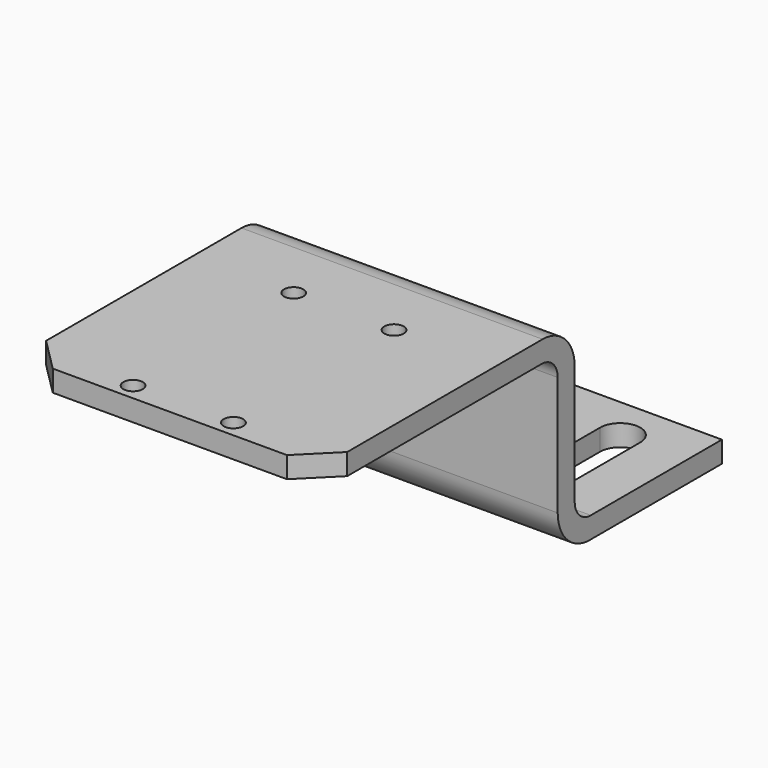
from build123d import *

# Parameters (mm, degrees)
F1_DEPTH = 45
F2_SIZE  = 10
F4_D     = 5.8
F6_DEPTH = 60.001


with BuildPart() as f1:
    # F0 (on Right) → F1 (new body, symmetric)
    with BuildSketch(Plane.YZ):
        with BuildLine():
            Line((83, 0), (0, 0))
            Line((0, 0), (0, -6.35))
            Line((0, -6.35), (82.65, -6.35))
            ThreePointArc((82.65, -6.35), (86.8926406871, -8.1073593129), (88.65, -12.35))
            Line((88.65, -12.35), (88.65, -48))
            ThreePointArc((88.65, -48), (92.1647186258, -56.4852813742), (100.65, -60))
            Line((100.65, -60), (150, -60))
            Line((150, -60), (150, -53.65))
            Line((150, -53.65), (101, -53.65))
            ThreePointArc((101, -53.65), (96.7573593129, -51.8926406871), (95, -47.65))
            Line((95, -47.65), (95, -12))
            ThreePointArc((95, -12), (91.4852813742, -3.5147186258), (83, 0))
        make_face()
    extrude(amount=F1_DEPTH, both=True)

    # F2
    f2_edges = [f1.edges().sort_by_distance(p)[0] for p in [
        (45, 0, -3.175),
        (-45, 0, -3.175),
    ]]
    chamfer(f2_edges, length=F2_SIZE)

    # F4 (through all)
    with Locations(Plane.XY):
        with Locations((-15, 5), (-15, 65), (15, 65), (15, 5)):
            Hole(F4_D / 2)

    # F5 (on face) → F6 (cut, through all)
    with BuildSketch(Plane(origin=(0, 0, -60), x_dir=(1, 0, 0), z_dir=(0, 0, -1))):
        with BuildLine():
            ThreePointArc((31, -113), (25, -107), (19, -113))
            Line((19, -113), (19, -125))
            Line((19, -125), (19, -137))
            ThreePointArc((19, -137), (25, -143), (31, -137))
            Line((31, -137), (31, -125))
            Line((31, -125), (31, -113))
        make_face()
        with BuildLine():
            Line((-31, -125), (-31, -137))
            ThreePointArc((-31, -137), (-25, -143), (-19, -137))
            Line((-19, -137), (-19, -125))
            Line((-19, -125), (-19, -113))
            ThreePointArc((-19, -113), (-25, -107), (-31, -113))
            Line((-31, -113), (-31, -125))
        make_face()
    extrude(amount=-F6_DEPTH, mode=Mode.SUBTRACT)


solid = f1.part
